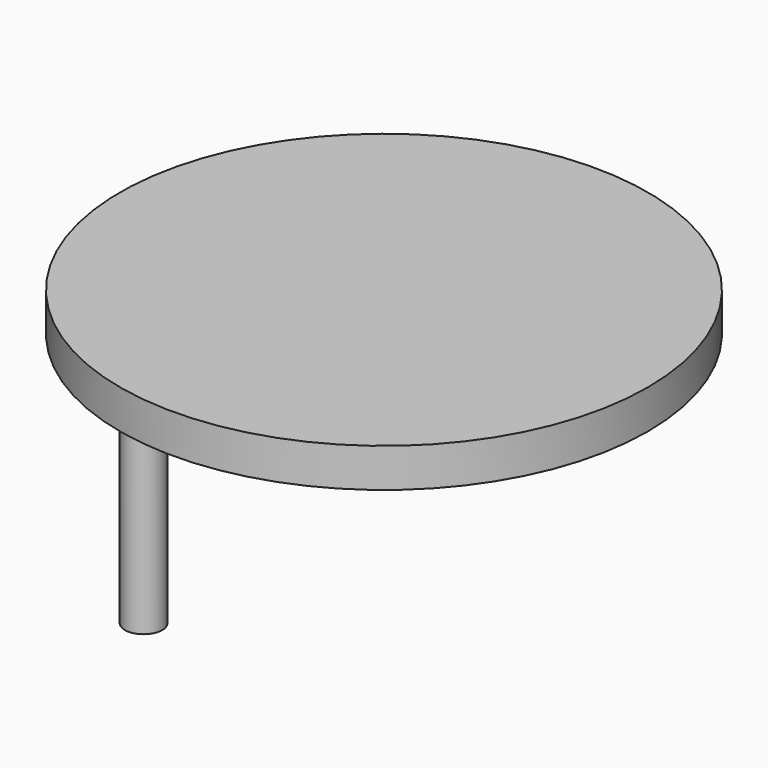
from build123d import *

# Parameters (mm, degrees)
F0_R     = 60.4266
F1_DEPTH = 8.89
F2_R     = 4.2799
F3_DEPTH = 76.2


with BuildPart() as f1:
    # F0 (on Top) → F1 (new body)
    with BuildSketch(Plane.XY):
        Circle(F0_R)
    extrude(amount=F1_DEPTH)

    # F2 (on face) → F3 (join)
    with BuildSketch(Plane(origin=(0, 0, 0), x_dir=(1, 0, 0), z_dir=(0, 0, -1))):
        with Locations((-55.03305, 0)):
            Circle(F2_R)
    extrude(amount=F3_DEPTH)


solid = f1.part
